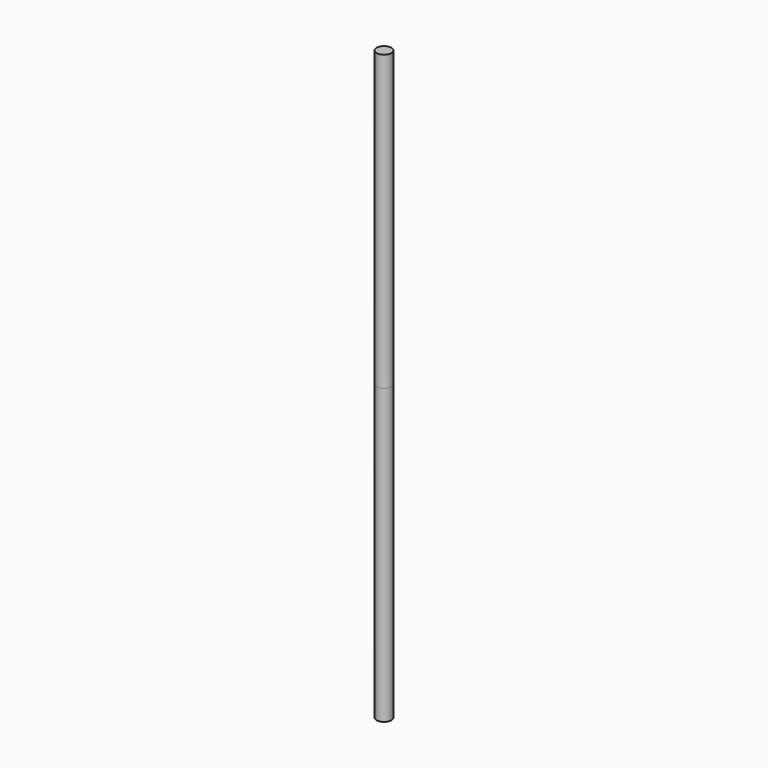
from build123d import *

# Parameters (mm, degrees)
F0_R          = 5
F1_DEPTH      = 200
F1_DEPTH_BACK = 200


with BuildPart() as f1:
    # F0 (on Top) → F1 (new body, two sides)
    with BuildSketch(Plane.XY) as f1_sk:
        Circle(F0_R)
    extrude(amount=-F1_DEPTH)
    extrude(f1_sk.sketch, amount=F1_DEPTH_BACK)


solid = f1.part
